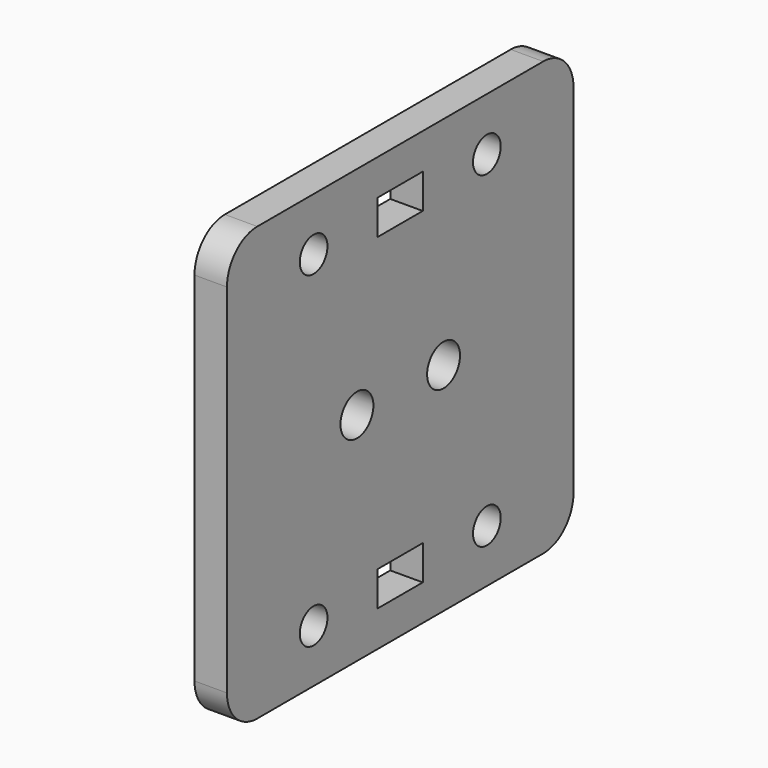
from build123d import *

# Parameters (mm, degrees)
PAD008_DEPTH    = 3
SKETCH034_R     = 1.6
SKETCH034_W     = 5.2
SKETCH034_H     = 3.2
POCKET021_DEPTH = 116.297072
SKETCH035_R     = 1.9
POCKET022_DEPTH = 3.001


with BuildPart() as part:
    # Sketch033 → Pad008 (new body)
    with BuildSketch(Plane.YZ):
        with BuildLine():
            Line((-16.5, 20), (16.5, 20))
            ThreePointArc((20, 16.5), (18.974874, 18.974874), (16.5, 20))
            Line((20, 16.5), (20, -16.5))
            ThreePointArc((16.5, -20), (18.974874, -18.974874), (20, -16.5))
            Line((16.5, -20), (-16.5, -20))
            ThreePointArc((-20, -16.5), (-18.974874, -18.974874), (-16.5, -20))
            Line((-20, -16.5), (-20, 16.5))
            ThreePointArc((-16.5, 20), (-18.974874, 18.974874), (-20, 16.5))
        make_face()
    extrude(amount=PAD008_DEPTH)

    # Sketch034 → Pocket021 (cut, through all)
    with BuildSketch(Plane.YZ):
        with Locations((-10, 15.1)):
            Circle(SKETCH034_R)
        with Locations((10, 15.1)):
            Circle(SKETCH034_R)
        with Locations((0, 15.1)):
            Rectangle(SKETCH034_W, SKETCH034_H)
    pocket021 = extrude(amount=POCKET021_DEPTH, mode=Mode.SUBTRACT)

    # Mirrored019: Pocket021 across Sketch034 H_Axis
    add(pocket021.mirror(Plane.XY), mode=Mode.SUBTRACT)

    # Sketch035 → Pocket022 (cut, through all)
    with BuildSketch(Plane.YZ):
        with Locations((-5, 0)):
            Circle(SKETCH035_R)
        with Locations((5, 0)):
            Circle(SKETCH035_R)
    extrude(amount=POCKET022_DEPTH, mode=Mode.SUBTRACT)


with BuildPart() as part_1:
    # Body006 placement: moved
    add(part.part.moved(Location((146, 0, 16.5))))


solid = part_1.part
